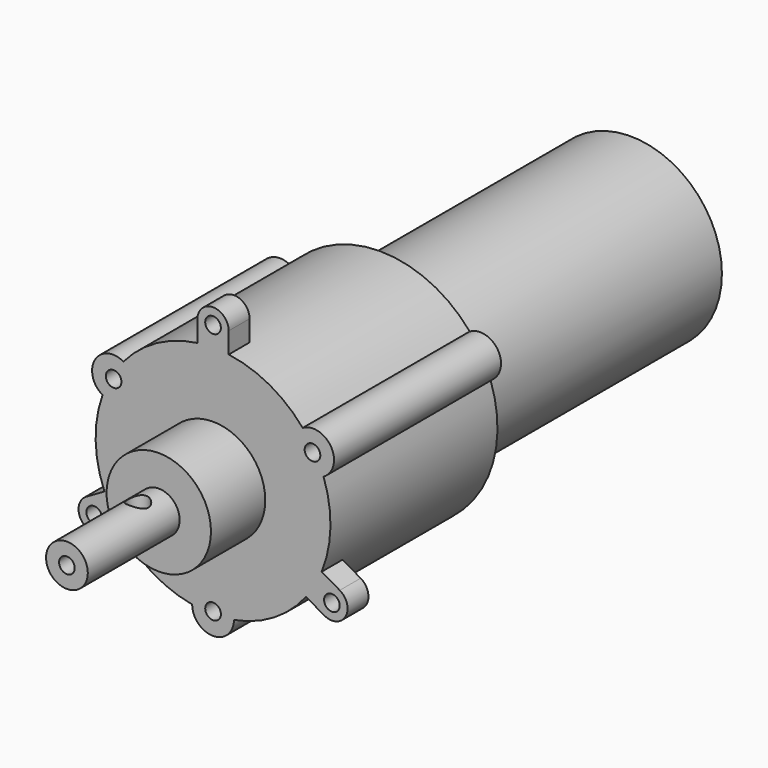
from build123d import *

# Parameters (mm, degrees)
F0_R      = 17.5
F1_DEPTH  = 60
F2_R      = 22.5
F3_DEPTH  = 40
F5_DEPTH  = 40
F7_D      = 3
F8_R      = 1.5
F9_DEPTH  = 5
F10_R     = 10
F11_DEPTH = 13
F12_R     = 4
F13_DEPTH = 22
F15_D     = 3
F15_DEPTH = 10
F15_TIP   = 0.9012909285
F16_R     = 2
F17_DEPTH = 12.5


with BuildPart() as f1:
    # F0 (on Front) → F1 (new body)
    with BuildSketch(Plane.XZ):
        Circle(F0_R)
    extrude(amount=F1_DEPTH)

    # F2 (on face) → F3 (join)
    with BuildSketch(Plane.XZ.offset(60)):
        Circle(F2_R)
    extrude(amount=F3_DEPTH)

    # F4 (on face) → F5 (join)
    with BuildSketch(Plane.XZ.offset(100)):
        with BuildLine():
            Line((4, -22.1415898255), (-4, -22.1415898255))
            ThreePointArc((-4, -22.1415898255), (0, -26.1415898255), (4, -22.1415898255))
        make_face()
        with BuildLine():
            Line((17.175179269, 14.5348965279), (21.175179269, 7.6066932976))
            ThreePointArc((21.175179269, 7.6066932976), (22.6392808842, 13.0707949127), (17.175179269, 14.5348965279))
        make_face()
        with BuildLine():
            Line((-21.175179269, 7.6066932976), (-17.175179269, 14.5348965279))
            ThreePointArc((-17.175179269, 14.5348965279), (-22.6392808842, 13.0707949127), (-21.175179269, 7.6066932976))
        make_face()
    extrude(amount=-F5_DEPTH)

    # F7 (through all)
    with Locations(Plane.XZ.offset(100)):
        with Locations((-19.0525588833, 11), (0, -22), (19.0525588833, 11)):
            Hole(F7_D / 2)

    # F8 (on face) → F9 (join)
    with BuildSketch(Plane.XZ.offset(100)):
        with BuildLine():
            Line((-3, 26.299103121), (-3, 22.299103121))
            Line((-3, 22.299103121), (3, 22.299103121))
            Line((3, 22.299103121), (3, 26.299103121))
            ThreePointArc((3, 26.299103121), (0, 29.299103121), (-3, 26.299103121))
        make_face()
        with Locations((0, 26.299103121)):
            Circle(F8_R, mode=Mode.SUBTRACT)
        with BuildLine():
            Line((-20.8115897844, -8.5514753491), (-24.2756913995, -10.5514753491))
            ThreePointArc((-24.2756913995, -10.5514753491), (-25.3737676109, -14.6495515605), (-21.2756913995, -15.7476277718))
            Line((-21.2756913995, -15.7476277718), (-17.8115897844, -13.7476277718))
            Line((-17.8115897844, -13.7476277718), (-20.8115897844, -8.5514753491))
        make_face()
        with Locations((-22.7756913995, -13.1495515605)):
            Circle(F8_R, mode=Mode.SUBTRACT)
        with BuildLine():
            Line((17.8115897844, -13.7476277718), (21.2756913995, -15.7476277718))
            ThreePointArc((21.2756913995, -15.7476277718), (25.3737676109, -14.6495515605), (24.2756913995, -10.5514753491))
            Line((24.2756913995, -10.5514753491), (20.8115897844, -8.5514753491))
            Line((20.8115897844, -8.5514753491), (17.8115897844, -13.7476277718))
        make_face()
        with Locations((22.7756913995, -13.1495515605)):
            Circle(F8_R, mode=Mode.SUBTRACT)
    extrude(amount=-F9_DEPTH)

    # F10 (on face) → F11 (join)
    with BuildSketch(Plane.XZ.offset(100)):
        Circle(F10_R)
    extrude(amount=F11_DEPTH)

    # F12 (on face) → F13 (join)
    with BuildSketch(Plane.XZ.offset(113)):
        Circle(F12_R)
    extrude(amount=F13_DEPTH)

    # F15
    with Locations(Plane.XZ.offset(135)):
        with Locations((0, 0)):
            Hole(F15_D / 2, depth=F15_DEPTH)
            with Locations((0, 0, -(F15_DEPTH + F15_TIP / 2))):  # 118° drill point
                Cone(0, F15_D / 2, F15_TIP, mode=Mode.SUBTRACT)

    # F16 (on Top) → F17 (cut, symmetric)
    with BuildSketch(Plane.XY):
        with Locations((0, -118)):
            Circle(F16_R)
    extrude(amount=F17_DEPTH, both=True, mode=Mode.SUBTRACT)


solid = f1.part
